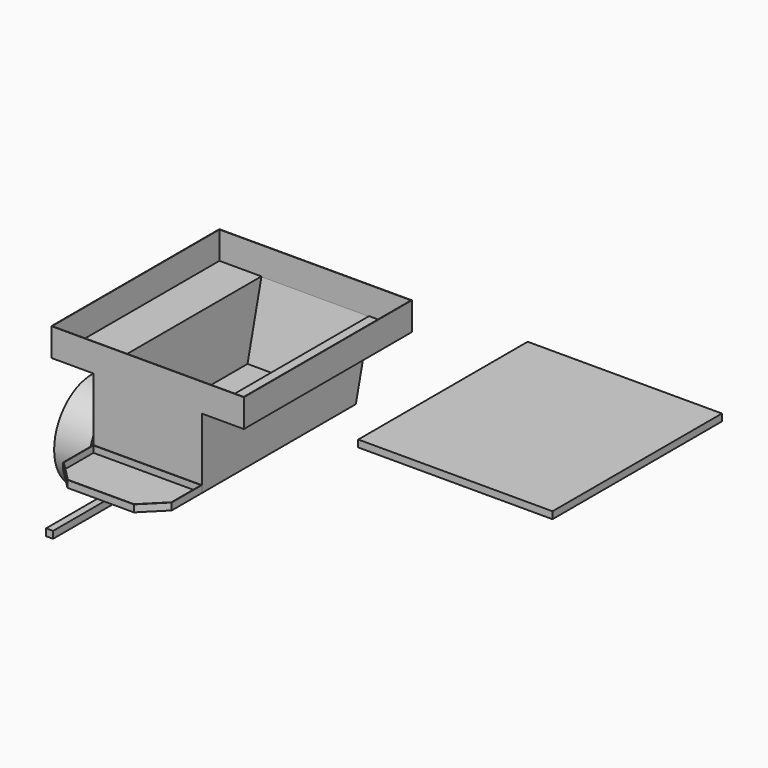
from build123d import *

# Parameters (mm, degrees)
F1_DEPTH      = 1524
F3_DEPTH      = 1092.201
F5_DEPTH      = 889
F5_DEPTH_BACK = 1379.22
F6_R          = 342.9
F7_DEPTH      = 254
F9_DEPTH      = 50.8
F10_T         = -3.175
F11_T         = -3.175
F12_R         = 12.7
F13_DEPTH     = 25.4
F14_W         = 1409.7
F14_H         = 50.8
F15_DEPTH     = 1536.7
F16_T         = -3.175


with BuildPart() as f1:
    # F0 (on Front) → F1 (new body)
    with BuildSketch(Plane.XZ):
        Polygon((1397, 0), (0, 0), (0, -203.2), (304.8, -203.2), (304.8, -711.2), (1092.2, -711.2), (1092.2, -203.2), (1397, -203.2), align=None)
    extrude(amount=-F1_DEPTH)

    # F2 (on face) → F3 (cut, through all)
    with BuildSketch(Plane.YZ.offset(1092.2)):
        Polygon((1524, -711.2), (1524, -203.2), (1397, -711.2), align=None)
    extrude(amount=-F3_DEPTH, mode=Mode.SUBTRACT)

    # F4 (on face) → F5 (join, two sides)
    with BuildSketch(Plane.XZ) as f5_sk:
        Polygon((723.9, -711.2), (698.5, -711.2), (673.1, -711.2), (673.1, -762), (723.9, -762), align=None)
    extrude(amount=F5_DEPTH)
    extrude(f5_sk.sketch, amount=-F5_DEPTH_BACK)

    # F11
    f11_openings = [f1.faces().sort_by_distance(p)[0] for p in [
        (698.5, 762, 0),
    ]]
    offset(amount=F11_T, openings=f11_openings, kind=Kind.INTERSECTION)

    # F12 (on face) → F13 (cut)
    with BuildSketch(Plane(origin=(0, 1482.1647058824, -370.5411764706), x_dir=(-1, 0, 0), z_dir=(0, 0.9701425001, -0.242535625))):
        with Locations((-698.5, -300.7801175117)):
            Circle(F12_R)
    extrude(amount=-F13_DEPTH, mode=Mode.SUBTRACT)


with BuildPart() as f7:
    # F6 (on face) → F7 (new body)
    with BuildSketch(Plane(origin=(0, 0, 0), x_dir=(0, -1, 0), z_dir=(-1, 0, 0))):
        with Locations((-1104.9, -800.1)):
            Circle(F6_R)
    extrude(amount=-F7_DEPTH)


with BuildPart() as f7b:
    # F6 (on face) → F7, piece 2 (new body)
    with BuildSketch(Plane(origin=(0, 0, 0), x_dir=(0, -1, 0), z_dir=(-1, 0, 0))):
        with Locations((-368.3, -800.1)):
            Circle(F6_R)
    extrude(amount=-F7_DEPTH)


with BuildPart() as f9:
    # F8 (on face) → F9 (new body)
    with BuildSketch(Plane(origin=(0, 0, -711.2), x_dir=(1, 0, 0), z_dir=(0, 0, -1))):
        Polygon((304.8, 273.322181797), (304.8, 0), (673.1, 0), (723.9, 0), (1092.2, 0), (1092.2, 273.322181797), (939.8, 425.722181797), (457.2, 425.722181797), align=None)
    extrude(amount=-F9_DEPTH)

    # F10
    f10_openings = [f9.faces().sort_by_distance(p)[0] for p in [
        (698.5, -200.796546, -660.4),
    ]]
    offset(amount=F10_T, openings=f10_openings)


with BuildPart() as f15:
    # F14 (on face) → F15 (new body)
    with BuildSketch(Plane.XZ):
        with Locations((2931.9826007332, -25.4)):
            Rectangle(F14_W, F14_H)
    extrude(amount=-F15_DEPTH)

    # F16
    f16_openings = [f15.faces().sort_by_distance(p)[0] for p in [
        (2931.982601, 768.35, -50.8),
    ]]
    offset(amount=F16_T, openings=f16_openings)


solid = Compound([f1.part, f7.part, f7b.part, f9.part, f15.part])
